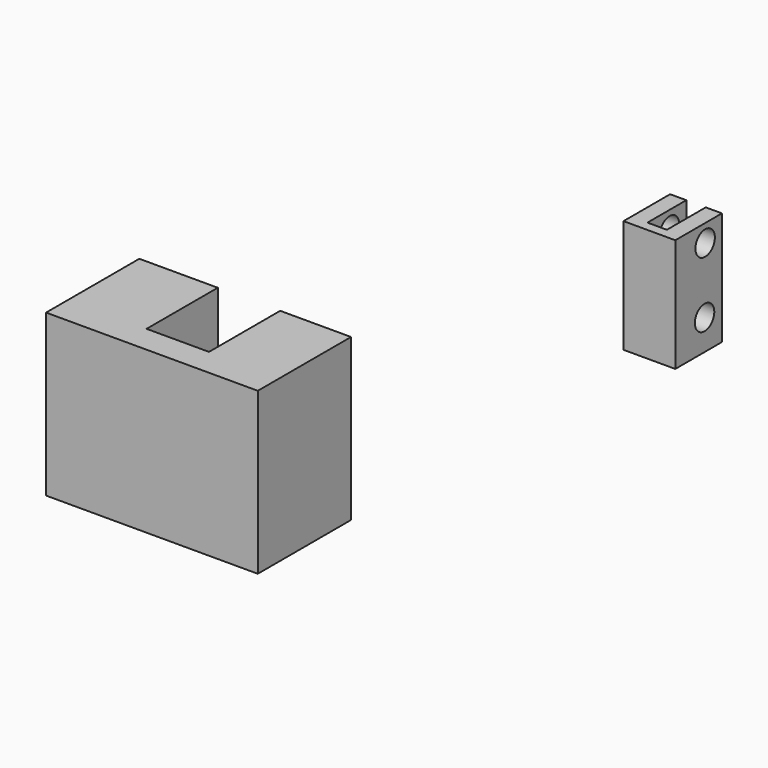
from build123d import *

# Parameters (mm, degrees)
F0_W     = 33.221686
F0_H     = 25.280248
F1_DEPTH = 18.288
F3_DEPTH = 25.4
F4_W     = 3.048
F4_H     = 1.524
F5_DEPTH = 17.78
F6_R     = 1.905
F7_DEPTH = 25.4


with BuildPart() as f1:
    # F0 (on Front) → F1 (new body)
    with BuildSketch(Plane.XZ):
        with Locations((4.301612, 0.264715)):
            Rectangle(F0_W, F0_H)
    extrude(amount=F1_DEPTH)

    # F2 (on face) → F3 (cut)
    with BuildSketch(Plane.XY.offset(12.904839)):
        Polygon((9.794441, 0), (0, 0), (0, -2.580968), (0, -13.963697), (9.794441, -13.963697), align=None)
    extrude(amount=-F3_DEPTH, mode=Mode.SUBTRACT)


with BuildPart() as f5:
    # F4 (on Top) → F5 (new body)
    with BuildSketch(Plane.XY):
        Polygon((36.166562, 46.693411), (33.626562, 46.693411), (33.626562, 37.549411), (36.166562, 37.549411), (36.166562, 39.073411), align=None)
        with Locations((37.690562, 38.311411)):
            Rectangle(F4_W, F4_H)
        Polygon((39.214562, 46.693411), (39.214562, 39.073411), (39.214562, 37.549411), (41.754562, 37.549411), (41.754562, 46.693411), align=None)
    extrude(amount=F5_DEPTH)

    # F6 (on face) → F7 (cut)
    with BuildSketch(Plane.YZ.offset(41.754562)):
        with Locations((43.401804, 15.016772)):
            Circle(F6_R)
        with Locations((43.293033, 4.774769)):
            Circle(F6_R)
    extrude(amount=-F7_DEPTH, mode=Mode.SUBTRACT)


solid = Compound([f1.part, f5.part])
